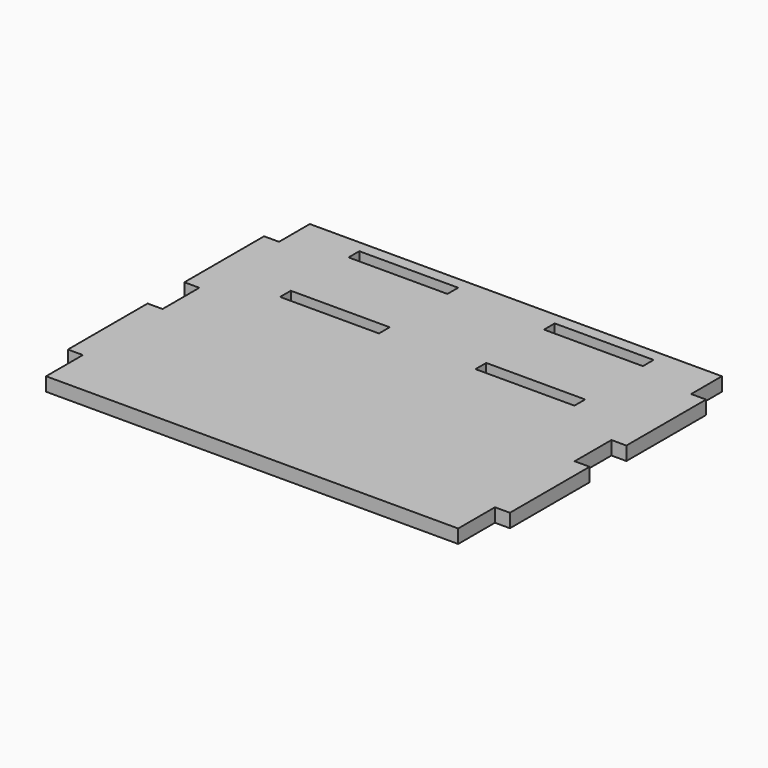
from build123d import *

# Parameters (mm, degrees)
F0_W     = 42
F0_H     = 5.7
F1_DEPTH = 5.8


with BuildPart() as f1:
    # F0 (on Top) → F1 (new body)
    with BuildSketch(Plane.XY):
        Polygon((87.5, 53.65), (87.5, 70), (-87.5, 70), (-87.5, 53.65), (-93.85, 53.65), (-93.85, 11.35), (-87.5, 11.35), (-87.5, -8.175), (-93.85, -8.175), (-93.85, -50.475), (-87.5, -50.475), (-87.5, -70), (87.5, -70), (87.5, -50.475), (93.85, -50.475), (93.85, -8.175), (87.5, -8.175), (87.5, 11.35), (93.85, 11.35), (93.85, 53.65), align=None)
        with Locations((-41.5, 25.8)):
            Rectangle(F0_W, F0_H, mode=Mode.SUBTRACT)
        with Locations((-41.5, 62.15)):
            Rectangle(F0_W, F0_H, mode=Mode.SUBTRACT)
        with Locations((41.5, 25.8)):
            Rectangle(F0_W, F0_H, mode=Mode.SUBTRACT)
        with Locations((41.5, 62.15)):
            Rectangle(F0_W, F0_H, mode=Mode.SUBTRACT)
    extrude(amount=F1_DEPTH)


solid = f1.part
